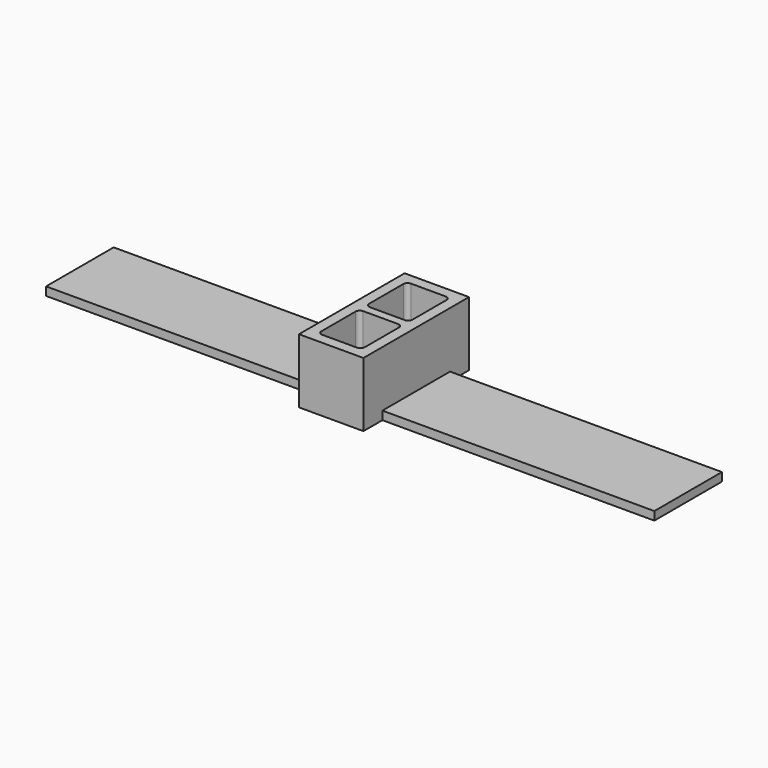
from build123d import *

# Parameters (mm, degrees)
F0_W     = 1828.8
F0_H     = 254
F1_DEPTH = 25.4
F2_W     = 193.675
F2_H     = 396.875
F3_DEPTH = 193.675


with BuildPart() as f1:
    # F0 (on Top) → F1 (new body)
    with BuildSketch(Plane.XY):
        Rectangle(F0_W, F0_H)
    extrude(amount=F1_DEPTH)


with BuildPart() as f3:
    # F2 (on Top) → F3 (new body)
    with BuildSketch(Plane.XY):
        Rectangle(F2_W, F2_H)
        with BuildLine():
            Line((-52.3875, -12.7), (52.3875, -12.7))
            ThreePointArc((52.3875, -12.7), (61.367756, -16.419744), (65.0875, -25.4))
            Line((65.0875, -25.4), (65.0875, -153.9875))
            ThreePointArc((65.0875, -153.9875), (61.367756, -162.967756), (52.3875, -166.6875))
            Line((52.3875, -166.6875), (-52.3875, -166.6875))
            ThreePointArc((-52.3875, -166.6875), (-61.367756, -162.967756), (-65.0875, -153.9875))
            Line((-65.0875, -153.9875), (-65.0875, -25.4))
            ThreePointArc((-65.0875, -25.4), (-61.367756, -16.419744), (-52.3875, -12.7))
        make_face(mode=Mode.SUBTRACT)
        with BuildLine():
            ThreePointArc((65.0875, 25.4), (61.367756, 16.419744), (52.3875, 12.7))
            Line((52.3875, 12.7), (-52.3875, 12.7))
            ThreePointArc((-52.3875, 12.7), (-61.367756, 16.419744), (-65.0875, 25.4))
            Line((-65.0875, 25.4), (-65.0875, 153.9875))
            ThreePointArc((-65.0875, 153.9875), (-61.367756, 162.967756), (-52.3875, 166.6875))
            Line((-52.3875, 166.6875), (52.3875, 166.6875))
            ThreePointArc((52.3875, 166.6875), (61.367756, 162.967756), (65.0875, 153.9875))
            Line((65.0875, 153.9875), (65.0875, 25.4))
        make_face(mode=Mode.SUBTRACT)
    extrude(amount=F3_DEPTH)


solid = Compound([f1.part, f3.part])
